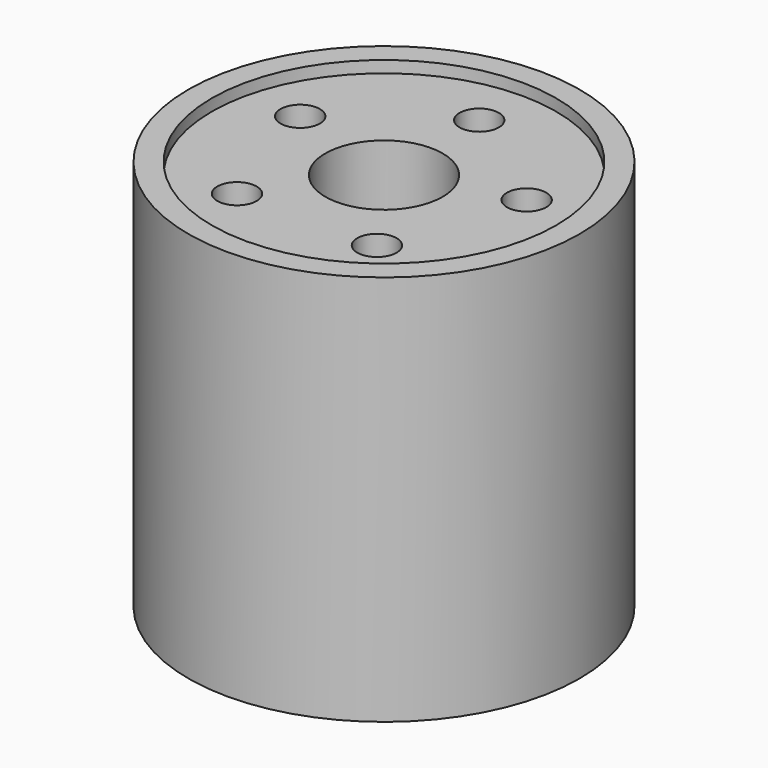
from build123d import *

# Parameters (mm, degrees)
F0_R     = 6.35
F0_R_2   = 5.588
F1_DEPTH = 6.35
F0_R_3   = 0.638783
F0_R_4   = 1.905
F2_DEPTH = 5.969


with BuildPart() as f1:
    # F0 (on Top) → F1 (new body, symmetric)
    with BuildSketch(Plane.XY):
        Circle(F0_R)
        Circle(F0_R_2, mode=Mode.SUBTRACT)
    extrude(amount=F1_DEPTH, both=True)

    # F0 (on Top) → F2 (join, symmetric)
    with BuildSketch(Plane.XY):
        Circle(F0_R_2)
        with Locations((-2.271086, -3.125882)):
            Circle(F0_R_3, mode=Mode.SUBTRACT)
        Circle(F0_R_4, mode=Mode.SUBTRACT)
        with Locations((2.271086, -3.125882)):
            Circle(F0_R_3, mode=Mode.SUBTRACT)
        with Locations((-3.674694, 1.193981)):
            Circle(F0_R_3, mode=Mode.SUBTRACT)
        with Locations((0, 3.863802)):
            Circle(F0_R_3, mode=Mode.SUBTRACT)
        with Locations((3.674694, 1.193981)):
            Circle(F0_R_3, mode=Mode.SUBTRACT)
    extrude(amount=F2_DEPTH, both=True)


solid = f1.part
